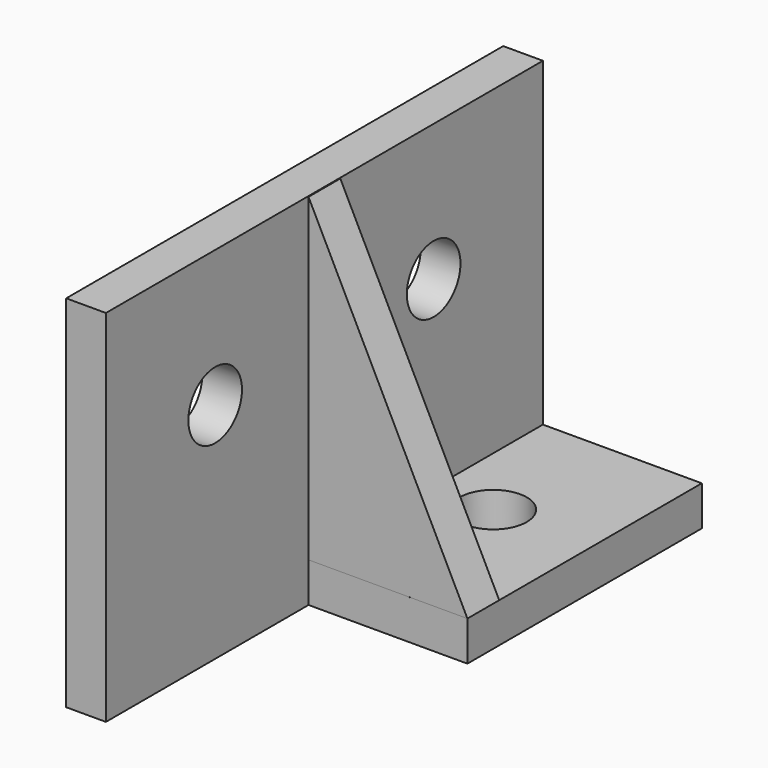
from build123d import *

# Parameters (mm, degrees)
BOX002_W          = 6.4
BOX002_H          = 11.8
BOX002_DEPTH      = 1.6
CYLINDER002_R     = 1.35
CYLINDER002_DEPTH = 10
CYLINDER001_R     = 1.35
CYLINDER001_DEPTH = 10
CYLINDER_R        = 1.35
CYLINDER_DEPTH    = 10
BOX_W             = 1.6
BOX_H             = 22
BOX_DEPTH         = 14.5
BOX001_W          = 6.4
BOX001_H          = 11.8
BOX001_DEPTH      = 1.6
CYLINDER003_R     = 1.35
CYLINDER003_DEPTH = 10
BOX003_W          = 6.4
BOX003_H          = 11.8
BOX003_DEPTH      = 1.6
EXTRUDE_DEPTH     = 1.6


with BuildPart() as cube002:
    # Box002 → Box002 (new body)
    with BuildSketch(Plane(origin=(1.6, 0, 0), x_dir=(1, 0, 0), z_dir=(0, 0, 1))):
        with Locations((3.2, 5.9)):
            Rectangle(BOX002_W, BOX002_H)
    extrude(amount=BOX002_DEPTH)


with BuildPart() as cylinder002:
    # Cylinder002 → Cylinder002 (new body)
    with BuildSketch(Plane(origin=(4, 5.5, 0), x_dir=(1, 0, 0), z_dir=(0, 0, 1))):
        Circle(CYLINDER002_R)
    extrude(amount=CYLINDER002_DEPTH)


with BuildPart() as cylinder001:
    # Cylinder001 → Cylinder001 (new body)
    with BuildSketch(Plane(origin=(0, 16.5, 9), x_dir=(0, 0, -1), z_dir=(1, 0, 0))):
        Circle(CYLINDER001_R)
    extrude(amount=CYLINDER001_DEPTH)


with BuildPart() as cylinder:
    # Cylinder → Cylinder (new body)
    with BuildSketch(Plane(origin=(0, 5.5, 9), x_dir=(0, 0, -1), z_dir=(1, 0, 0))):
        Circle(CYLINDER_R)
    extrude(amount=CYLINDER_DEPTH)


with BuildPart() as cut001:
    # Box → Box (new body)
    with BuildSketch(Plane.XY):
        with Locations((0.8, 11)):
            Rectangle(BOX_W, BOX_H)
    extrude(amount=BOX_DEPTH)

    # Cut: cut Cylinder
    add(cylinder.part, mode=Mode.SUBTRACT)

    # Cut001: cut Cylinder001
    add(cylinder001.part, mode=Mode.SUBTRACT)


with BuildPart() as cut003:
    # Box001 → Box001 (new body)
    with BuildSketch(Plane(origin=(1.6, 0, 0), x_dir=(1, 0, 0), z_dir=(0, 0, 1))):
        with Locations((3.2, 5.9)):
            Rectangle(BOX001_W, BOX001_H)
    extrude(amount=BOX001_DEPTH)

    # Connect: union Cut001
    add(cut001.part)

    # Cut002: cut Cylinder002
    add(cylinder002.part, mode=Mode.SUBTRACT)

    # Cut003: cut Cube002
    add(cube002.part, mode=Mode.SUBTRACT)


with BuildPart() as cylinder003:
    # Cylinder003 → Cylinder003 (new body)
    with BuildSketch(Plane(origin=(4, 16.5, 0), x_dir=(1, 0, 0), z_dir=(0, 0, 1))):
        Circle(CYLINDER003_R)
    extrude(amount=CYLINDER003_DEPTH)


with BuildPart() as cut004:
    # Box003 → Box003 (new body)
    with BuildSketch(Plane(origin=(1.6, 10.2, 0), x_dir=(1, 0, 0), z_dir=(0, 0, 1))):
        with Locations((3.2, 5.9)):
            Rectangle(BOX003_W, BOX003_H)
    extrude(amount=BOX003_DEPTH)

    # Cut004: cut Cylinder003
    add(cylinder003.part, mode=Mode.SUBTRACT)


with BuildPart() as connect001:
    # Sketch → Extrude (new body)
    with BuildSketch(Plane.XZ):
        Polygon((1.593675, 14.483153), (1.593675, 1.60001), (7.999931, 1.60001), align=None)
    extrude(amount=EXTRUDE_DEPTH)


with BuildPart() as connect001_1:
    # Extrude placement: moved
    add(connect001.part.moved(Location((0, 11.8, 0))))

    # Connect001: union Cut003, Cut004
    add(cut003.part)
    add(cut004.part)


solid = connect001_1.part
